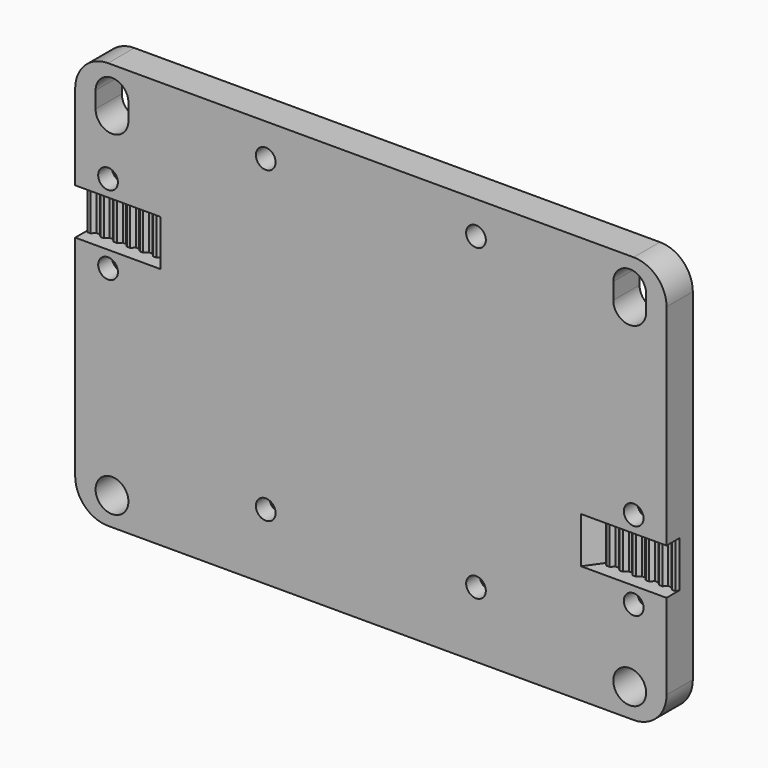
from build123d import *

# Parameters (mm, degrees)
F0_R      = 2.5
F1_DEPTH  = 5
F2_W      = 13
F2_H      = 7
F3_DEPTH  = 2.5
F5_DEPTH  = 7
F7_DEPTH  = 7
F8_R      = 1.5
F9_DEPTH  = 5
F10_R     = 1.5
F11_DEPTH = 2.4
F12_R     = 1.5
F13_DEPTH = 5
F14_R     = 1.5
F15_DEPTH = 2.4


with BuildPart() as f1:
    # F0 (on Front) → F1 (new body)
    with BuildSketch(Plane.XZ):
        with BuildLine():
            ThreePointArc((0, 5), (1.464466, 1.464466), (5, 0))
            Line((5, 0), (85, 0))
            ThreePointArc((85, 0), (88.535534, 1.464466), (90, 5))
            Line((90, 5), (90, 57))
            ThreePointArc((90, 57), (88.535534, 60.535534), (85, 62))
            Line((85, 62), (5, 62))
            ThreePointArc((5, 62), (1.464466, 60.535534), (0, 57))
            Line((0, 57), (0, 5))
        make_face()
        with Locations((5.602129, 4.271554)):
            Circle(F0_R, mode=Mode.SUBTRACT)
        with Locations((84.397871, 4.271554)):
            Circle(F0_R, mode=Mode.SUBTRACT)
        with BuildLine():
            Line((3.102129, 55.228446), (3.102129, 57.728446))
            ThreePointArc((3.102129, 57.728446), (5.602129, 60.228446), (8.102129, 57.728446))
            Line((8.102129, 57.728446), (8.102129, 55.228446))
            ThreePointArc((8.102129, 55.228446), (5.602129, 52.728446), (3.102129, 55.228446))
        make_face(mode=Mode.SUBTRACT)
        with BuildLine():
            ThreePointArc((81.897871, 57.728446), (84.397871, 60.228446), (86.897871, 57.728446))
            Line((86.897871, 57.728446), (86.897871, 55.228446))
            ThreePointArc((86.897871, 55.228446), (84.397871, 52.728446), (81.897871, 55.228446))
            Line((81.897871, 55.228446), (81.897871, 57.728446))
        make_face(mode=Mode.SUBTRACT)
    extrude(amount=F1_DEPTH)

    # F2 (on face) → F3 (cut)
    with BuildSketch(Plane.XZ.offset(5)):
        with Locations((6.5, 40.5)):
            Rectangle(F2_W, F2_H)
        with Locations((83.5, 21.5)):
            Rectangle(F2_W, F2_H)
    extrude(amount=-F3_DEPTH, mode=Mode.SUBTRACT)

    # F4 (on face) → F5 (join, through all)
    with BuildSketch(Plane(origin=(0, 0, 44), x_dir=(1, 0, 0), z_dir=(0, 0, -1))):
        Polygon((13, 2.5), (13, 5), (11.25, 2.5), align=None)
        Polygon((7.75, 2.5), (9.25, 2.5), (8.75, 3), (8.25, 3), align=None)
        Polygon((9.75, 2.5), (11.25, 2.5), (10.75, 3), (10.25, 3), align=None)
        Polygon((6.25, 3), (5.75, 2.5), (7.25, 2.5), (6.75, 3), align=None)
        Polygon((4.25, 3), (3.75, 2.5), (5.25, 2.5), (4.75, 3), align=None)
        Polygon((2.25, 3), (1.75, 2.5), (3.25, 2.5), (2.75, 3), align=None)
        Polygon((0.25, 3), (0, 2.5), (1.25, 2.5), (0.75, 3), align=None)
    extrude(amount=F5_DEPTH)

    # F6 (on face) → F7 (join, through all)
    with BuildSketch(Plane.XY.offset(18)):
        Polygon((77, -2.5), (77, -5), (78.75, -2.5), align=None)
        Polygon((80.25, -2.5), (78.75, -2.5), (79.25, -3), (79.75, -3), align=None)
        Polygon((82.25, -2.5), (80.75, -2.5), (81.25, -3), (81.75, -3), align=None)
        Polygon((83.75, -3), (84.25, -2.5), (82.75, -2.5), (83.25, -3), align=None)
        Polygon((85.75, -3), (86.25, -2.5), (84.75, -2.5), (85.25, -3), align=None)
        Polygon((87.75, -3), (88.25, -2.5), (86.75, -2.5), (87.25, -3), align=None)
        Polygon((89.75, -3), (90, -2.5), (88.75, -2.5), (89.25, -3), align=None)
    extrude(amount=F7_DEPTH)

    # F8 (on face) → F9 (cut)
    with BuildSketch(Plane.XZ.offset(5)):
        with Locations((5, 46.5)):
            Circle(F8_R)
        with Locations((5, 34.5)):
            Circle(F8_R)
        with Locations((85, 27.5)):
            Circle(F8_R)
        with Locations((85, 15.5)):
            Circle(F8_R)
    extrude(amount=-F9_DEPTH, mode=Mode.SUBTRACT)

    # F10 (on face) → F11 (cut)
    with BuildSketch(Plane(origin=(0, 0, 0), x_dir=(-1, 0, 0), z_dir=(0, 1, 0))):
        Polygon((-82, 25.767949), (-82, 29.232051), (-85, 30.964102), (-88, 29.232051), (-88, 25.767949), (-85, 24.035898), align=None)
        with Locations((-85, 27.5)):
            Circle(F10_R, mode=Mode.SUBTRACT)
        Polygon((-82, 13.767949), (-82, 17.232051), (-85, 18.964102), (-88, 17.232051), (-88, 13.767949), (-85, 12.035898), align=None)
        with Locations((-85, 15.5)):
            Circle(F10_R, mode=Mode.SUBTRACT)
        Polygon((-8, 36.232051), (-8, 32.767949), (-5, 31.035898), (-2, 32.767949), (-2, 36.232051), (-5, 37.964102), align=None)
        with Locations((-5, 34.5)):
            Circle(F10_R, mode=Mode.SUBTRACT)
        Polygon((-8, 48.232051), (-8, 44.767949), (-5, 43.035898), (-2, 44.767949), (-2, 48.232051), (-5, 49.964102), align=None)
        with Locations((-5, 46.5)):
            Circle(F10_R, mode=Mode.SUBTRACT)
    extrude(amount=-F11_DEPTH, mode=Mode.SUBTRACT)

    # F12 (on face) → F13 (cut)
    with BuildSketch(Plane.XZ.offset(5)):
        with Locations((61, 57)):
            Circle(F12_R)
        with Locations((29, 57)):
            Circle(F12_R)
        with Locations((29, 10)):
            Circle(F12_R)
        with Locations((61, 10)):
            Circle(F12_R)
    extrude(amount=-F13_DEPTH, mode=Mode.SUBTRACT)

    # F14 (on face) → F15 (cut)
    with BuildSketch(Plane(origin=(0, 0, 0), x_dir=(-1, 0, 0), z_dir=(0, 1, 0))):
        Polygon((-58, 8.267949), (-58, 11.732051), (-61, 13.464102), (-64, 11.732051), (-64, 8.267949), (-61, 6.535898), align=None)
        with Locations((-61, 10)):
            Circle(F14_R, mode=Mode.SUBTRACT)
        Polygon((-32, 11.732051), (-32, 8.267949), (-29, 6.535898), (-26, 8.267949), (-26, 11.732051), (-29, 13.464102), align=None)
        with Locations((-29, 10)):
            Circle(F14_R, mode=Mode.SUBTRACT)
    extrude(amount=-F15_DEPTH, mode=Mode.SUBTRACT)


solid = f1.part
